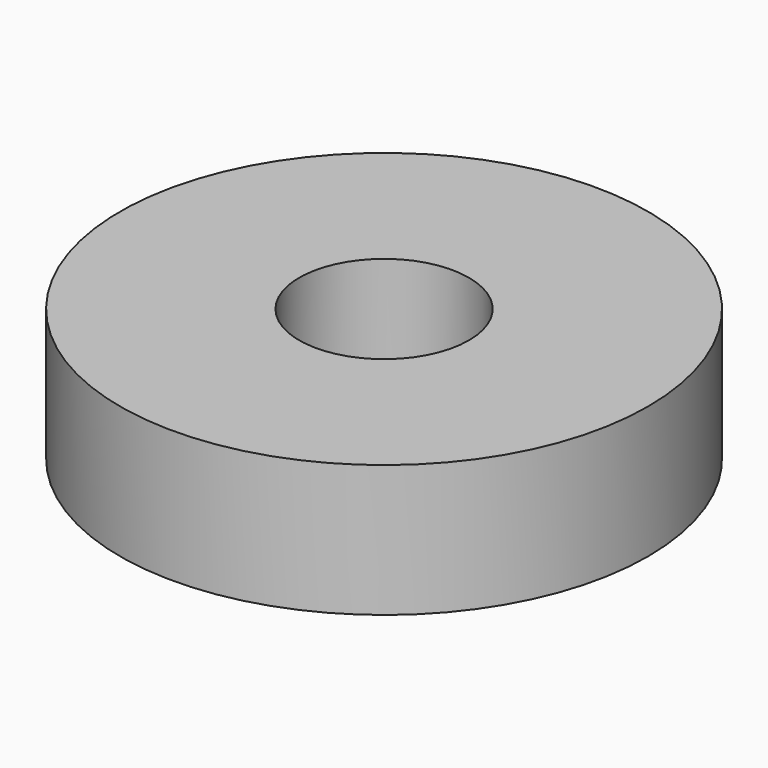
from build123d import *

# Parameters (mm, degrees)
SKETCH_R   = 7
SKETCH_R_2 = 2.25
PAD_DEPTH  = 3.5


with BuildPart() as part:
    # Sketch → Pad (new body)
    with BuildSketch(Plane.XY):
        Circle(SKETCH_R)
        Circle(SKETCH_R_2, mode=Mode.SUBTRACT)
    extrude(amount=PAD_DEPTH)


solid = part.part
